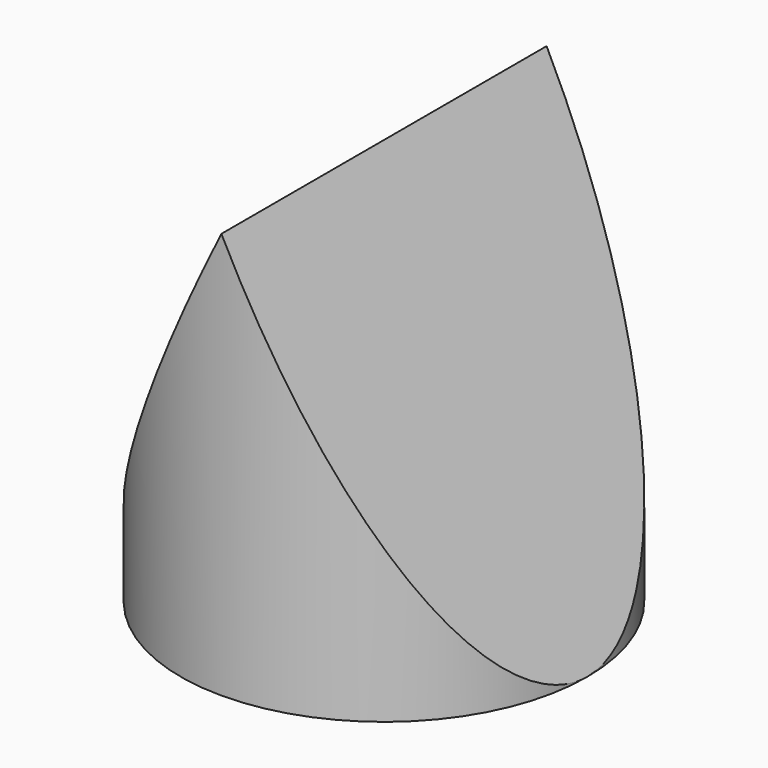
from build123d import *

# Parameters (mm, degrees)
F0_R     = 17.5
F1_DEPTH = 35
F3_DEPTH = 25


with BuildPart() as f1:
    # F0 (on Top) → F1 (new body)
    with BuildSketch(Plane.XY):
        Circle(F0_R)
    extrude(amount=F1_DEPTH)


with BuildPart() as f3:
    # F2 (on Front) → F3 (new body, symmetric)
    with BuildSketch(Plane.XZ):
        Polygon((0, 35), (-17.5, 0), (17.5, 0), align=None)
    extrude(amount=F3_DEPTH, both=True)


with BuildPart() as f1_1:
    add(f1.part)

    # F4: intersect F3
    add(f3.part, mode=Mode.INTERSECT)


solid = f1_1.part
